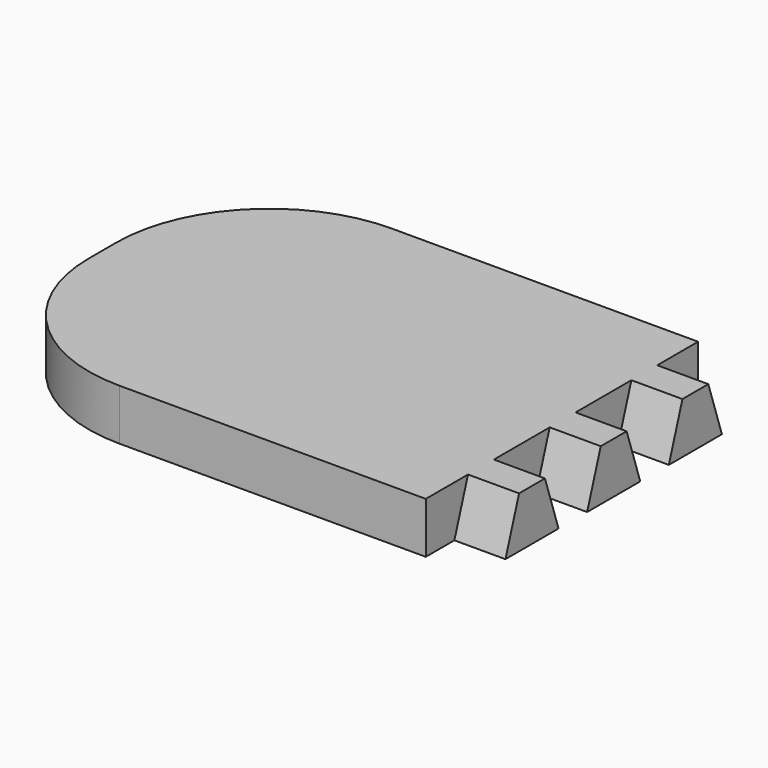
from build123d import *

# Parameters (mm, degrees)
SKETCH_W            = 27
SKETCH_H            = 20
PAD_DEPTH           = 3
PAD001_DEPTH        = 3
LINEARPATTERN_COUNT = 3
LINEARPATTERN_PITCH = 6
FILLET_R            = 9


with BuildPart() as part:
    # Sketch → Pad (new body)
    with BuildSketch(Plane.XY):
        Rectangle(SKETCH_W, SKETCH_H)
    extrude(amount=PAD_DEPTH)

    # Sketch001 → Pad001 (new body)
    with BuildSketch(Plane.YZ.offset(13.5)):
        Polygon((-6.9, 3), (-5, 3), (-4, 0), (-7.9, 0), align=None)
    pad001 = extrude(amount=PAD001_DEPTH)

    # LinearPattern: Pad001 ×3
    with Locations(*[(0, i * LINEARPATTERN_PITCH, 0) for i in range(1, LINEARPATTERN_COUNT)]):
        add(pad001)

    # Fillet
    fillet_edges = [part.edges().sort_by_distance(p)[0] for p in [
        (-13.5, 10, 1.5),
        (-13.5, -10, 1.5),
    ]]
    fillet(fillet_edges, radius=FILLET_R)


solid = part.part
